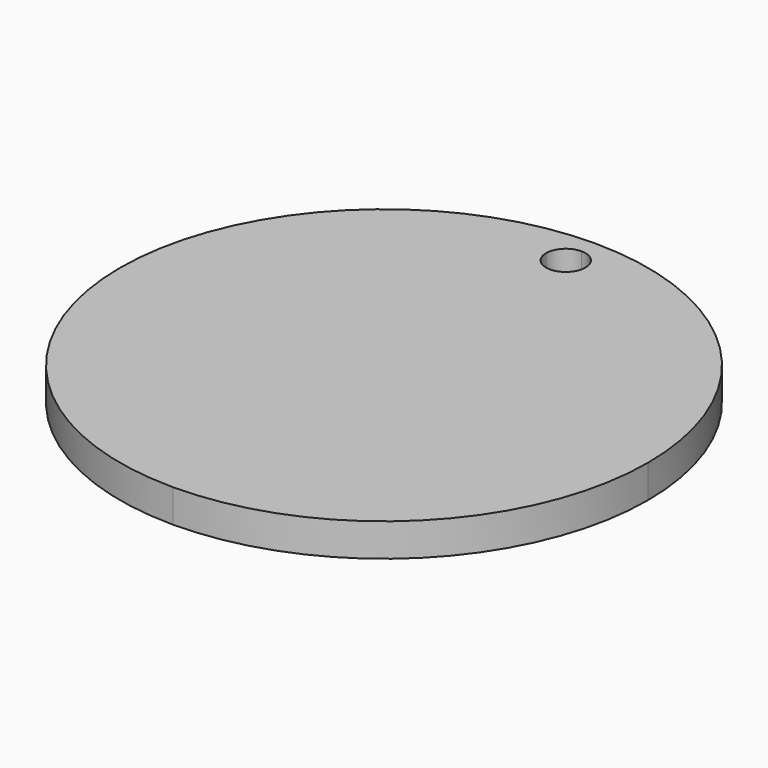
from build123d import *

# Parameters (mm, degrees)
F1_DEPTH = 6.35


with BuildPart() as f1:
    # F0 (on Top) → F1 (new body)
    with BuildSketch(Plane.XY):
        with BuildLine():
            Line((0, 47.5154318641), (0, 50.8))
            ThreePointArc((0, 50.8), (-50.8, 0), (0, -50.8))
            Line((0, -50.8), (0, 39.9495042134))
            ThreePointArc((0, 39.9495042134), (-2.6749593739, 41.0575086649), (-3.7829638253, 43.7324680388))
            ThreePointArc((-3.7829638253, 43.7324680388), (-2.6749593739, 46.4074274127), (0, 47.5154318641))
        make_face()
        with BuildLine():
            ThreePointArc((0, -50.8), (35.9210244843, -35.9210244843), (50.8, 0))
            ThreePointArc((50.8, 0), (35.9210244843, 35.9210244843), (0, 50.8))
            Line((0, 50.8), (0, 47.5154318641))
            ThreePointArc((0, 47.5154318641), (2.6749593739, 46.4074274127), (3.7829638253, 43.7324680388))
            ThreePointArc((3.7829638253, 43.7324680388), (2.6749593739, 41.0575086649), (0, 39.9495042134))
            Line((0, 39.9495042134), (0, -50.8))
        make_face()
    extrude(amount=F1_DEPTH)


solid = f1.part
